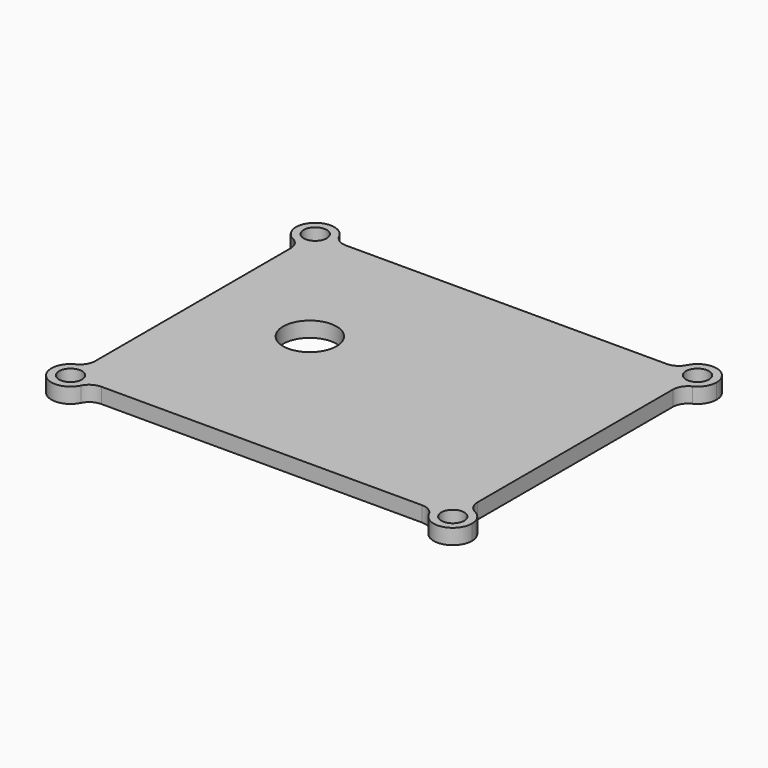
from build123d import *

# Parameters (mm, degrees)
F0_R     = 3.5
F1_DEPTH = 2
F3_D     = 3
F4_R     = 2


with BuildPart() as f1:
    # F0 (on Top) → F1 (new body)
    with BuildSketch(Plane.XY):
        with BuildLine():
            Line((-25, 17.5), (-25, 20))
            Line((-25, 20), (-22.5, 20))
            ThreePointArc((-22.5, 20), (-26.767766953, 21.767766953), (-25, 17.5))
        make_face()
        with BuildLine():
            Line((-22.5, 20), (-25, 20))
            Line((-25, 20), (-25, 17.5))
            ThreePointArc((-25, 17.5), (-23.232233047, 18.232233047), (-22.5, 20))
        make_face()
        with BuildLine():
            Line((22.5, 20), (-22.5, 20))
            ThreePointArc((-22.5, 20), (-23.232233047, 18.232233047), (-25, 17.5))
            Line((-25, 17.5), (-25, -17.5))
            ThreePointArc((-25, -17.5), (-23.232233047, -18.232233047), (-22.5, -20))
            Line((-22.5, -20), (22.5, -20))
            ThreePointArc((22.5, -20), (23.232233047, -18.232233047), (25, -17.5))
            Line((25, -17.5), (25, 17.5))
            ThreePointArc((25, 17.5), (23.232233047, 18.232233047), (22.5, 20))
        make_face()
        with Locations((-11.3, 2)):
            Circle(F0_R, mode=Mode.SUBTRACT)
        with BuildLine():
            ThreePointArc((27.5, 20), (25, 22.5), (22.5, 20))
            Line((22.5, 20), (25, 20))
            Line((25, 20), (25, 17.5))
            ThreePointArc((25, 17.5), (26.767766953, 18.232233047), (27.5, 20))
        make_face()
        with BuildLine():
            Line((25, 20), (22.5, 20))
            ThreePointArc((22.5, 20), (23.232233047, 18.232233047), (25, 17.5))
            Line((25, 17.5), (25, 20))
        make_face()
        with BuildLine():
            ThreePointArc((-22.5, -20), (-23.232233047, -18.232233047), (-25, -17.5))
            Line((-25, -17.5), (-25, -20))
            Line((-25, -20), (-22.5, -20))
        make_face()
        with BuildLine():
            Line((-25, -20), (-25, -17.5))
            ThreePointArc((-25, -17.5), (-26.767766953, -21.767766953), (-22.5, -20))
            Line((-22.5, -20), (-25, -20))
        make_face()
        with BuildLine():
            ThreePointArc((27.5, -20), (26.767766953, -18.232233047), (25, -17.5))
            Line((25, -17.5), (25, -20))
            Line((25, -20), (22.5, -20))
            ThreePointArc((22.5, -20), (25, -22.5), (27.5, -20))
        make_face()
        with BuildLine():
            Line((25, -20), (25, -17.5))
            ThreePointArc((25, -17.5), (23.232233047, -18.232233047), (22.5, -20))
            Line((22.5, -20), (25, -20))
        make_face()
    extrude(amount=F1_DEPTH)

    # F3 (through all)
    with Locations(Plane.XY.offset(2)):
        with Locations((-25, 20), (-25, -20), (25, 20), (25, -20)):
            Hole(F3_D / 2)

    # F4
    f4_edges = [f1.edges().sort_by_distance(p)[0] for p in [
        (-25, 17.5, 1),
        (-22.5, 20, 1),
        (22.5, 20, 1),
        (25, 17.5, 1),
        (25, -17.5, 1),
        (22.5, -20, 1),
        (-22.5, -20, 1),
        (-25, -17.5, 1),
    ]]
    fillet(f4_edges, radius=F4_R)


solid = f1.part
